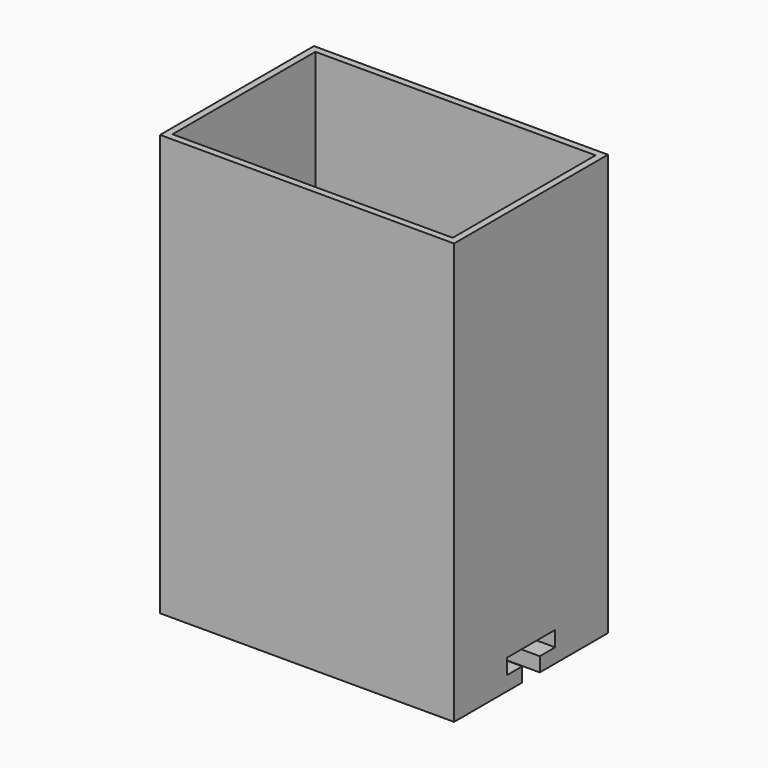
from build123d import *

# Parameters (mm, degrees)
F0_W     = 67.945
F0_H     = 44.45
F1_DEPTH = 1.5875
F2_W     = 67.945
F2_H     = 44.45
F2_W_2   = 64.77
F2_H_2   = 41.275
F3_DEPTH = 88.9
F4_W     = 67.945
F4_H     = 15.24
F5_DEPTH = 6.858
F6_W     = 67.945
F6_H     = 4.445
F7_DEPTH = 3.302


with BuildPart() as f1:
    # F0 (on Top) → F1 (new body)
    with BuildSketch(Plane.XY):
        Rectangle(F0_W, F0_H)
    extrude(amount=F1_DEPTH)

    # F2 (on face) → F3 (join)
    with BuildSketch(Plane.XY.offset(1.5875)):
        Rectangle(F2_W, F2_H)
        Rectangle(F2_W_2, F2_H_2, mode=Mode.SUBTRACT)
    extrude(amount=F3_DEPTH)

    # F4 (on face) → F5 (join)
    with BuildSketch(Plane(origin=(0, 0, 0), x_dir=(1, 0, 0), z_dir=(0, 0, -1))):
        with Locations((0, 14.605)):
            Rectangle(F4_W, F4_H)
        with Locations((0, -14.605)):
            Rectangle(F4_W, F4_H)
    extrude(amount=F5_DEPTH)

    # F6 (on face) → F7 (join)
    with BuildSketch(Plane(origin=(0, 0, -6.858), x_dir=(1, 0, 0), z_dir=(0, 0, -1))):
        with Locations((0, 4.7625)):
            Rectangle(F6_W, F6_H)
        with Locations((0, -4.7625)):
            Rectangle(F6_W, F6_H)
    extrude(amount=-F7_DEPTH)


solid = f1.part
